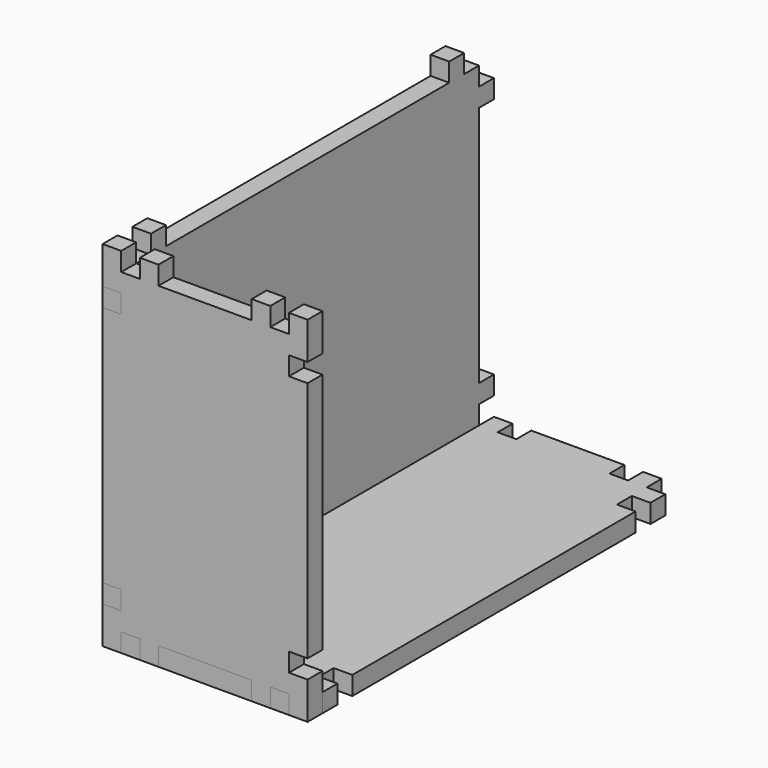
from build123d import *

# Parameters (mm, degrees)
F1_DEPTH = 12.7
F3_DEPTH = 12.7
F5_DEPTH = 12.7


with BuildPart() as f1:
    # F0 (on Top) → F1 (new body)
    with BuildSketch(Plane.XY):
        Polygon((12.7, 12.7), (12.7, 0), (25.4, 0), (25.4, 12.7), (38.1, 12.7), (38.1, 0), (69.85, 0), (101.6, 0), (101.6, 12.7), (114.3, 12.7), (114.3, 0), (127, 0), (127, 12.7), (139.7, 12.7), (139.7, 25.4), (127, 25.4), (127, 38.1), (139.7, 38.1), (139.7, 279.4), (127, 279.4), (127, 292.1), (139.7, 292.1), (139.7, 304.8), (127, 304.8), (127, 317.5), (114.3, 317.5), (114.3, 304.8), (101.6, 304.8), (101.6, 317.5), (38.1, 317.5), (38.1, 304.8), (25.4, 304.8), (25.4, 317.5), (12.7, 317.5), (12.7, 304.8), (0, 304.8), (0, 292.1), (12.7, 292.1), (12.7, 279.4), (0, 279.4), (0, 158.75), (0, 38.1), (12.7, 38.1), (12.7, 25.4), (0, 25.4), (0, 12.7), align=None)
    extrude(amount=-F1_DEPTH)


with BuildPart() as f3:
    # F2 (on Front) → F3 (new body)
    with BuildSketch(Plane.XZ):
        Polygon((0, 12.7), (0, 0), (0, -12.7), (12.7, -12.7), (12.7, 0), (25.4, 0), (25.4, -12.7), (38.1, -12.7), (38.1, 0), (69.85, 0), (101.6, 0), (101.6, -12.7), (114.3, -12.7), (114.3, 0), (127, 0), (127, -12.7), (139.7, -12.7), (139.7, 0), (139.7, 12.7), (127, 12.7), (127, 25.4), (139.7, 25.4), (139.7, 190.5), (127, 190.5), (127, 203.2), (139.7, 203.2), (139.7, 215.9), (139.7, 228.6), (127, 228.6), (127, 215.9), (114.3, 215.9), (114.3, 228.6), (101.6, 228.6), (101.6, 215.9), (38.1, 215.9), (38.1, 228.6), (25.4, 228.6), (25.4, 215.9), (12.7, 215.9), (12.7, 228.6), (0, 228.6), (0, 215.9), (0, 203.2), (12.7, 203.2), (12.7, 190.5), (0, 190.5), (0, 107.95), (0, 25.4), (12.7, 25.4), (12.7, 12.7), align=None)
    extrude(amount=-F3_DEPTH)


with BuildPart() as f5:
    # F4 (on Right) → F5 (new body)
    with BuildSketch(Plane.YZ):
        Polygon((12.7, 12.7), (12.7, 0), (25.4, 0), (25.4, -12.7), (38.1, -12.7), (38.1, 0), (279.4, 0), (279.4, -12.7), (292.1, -12.7), (292.1, 0), (304.8, 0), (304.8, 12.7), (317.5, 12.7), (317.5, 25.4), (304.8, 25.4), (304.8, 190.5), (317.5, 190.5), (317.5, 203.2), (304.8, 203.2), (304.8, 215.9), (292.1, 215.9), (292.1, 228.6), (279.4, 228.6), (279.4, 215.9), (158.75, 215.9), (38.1, 215.9), (38.1, 228.6), (25.4, 228.6), (25.4, 215.9), (12.7, 215.9), (12.7, 203.2), (0, 203.2), (0, 190.5), (12.7, 190.5), (12.7, 107.95), (12.7, 25.4), (0, 25.4), (0, 12.7), align=None)
    extrude(amount=F5_DEPTH)


solid = Compound([f1.part, f3.part, f5.part])
